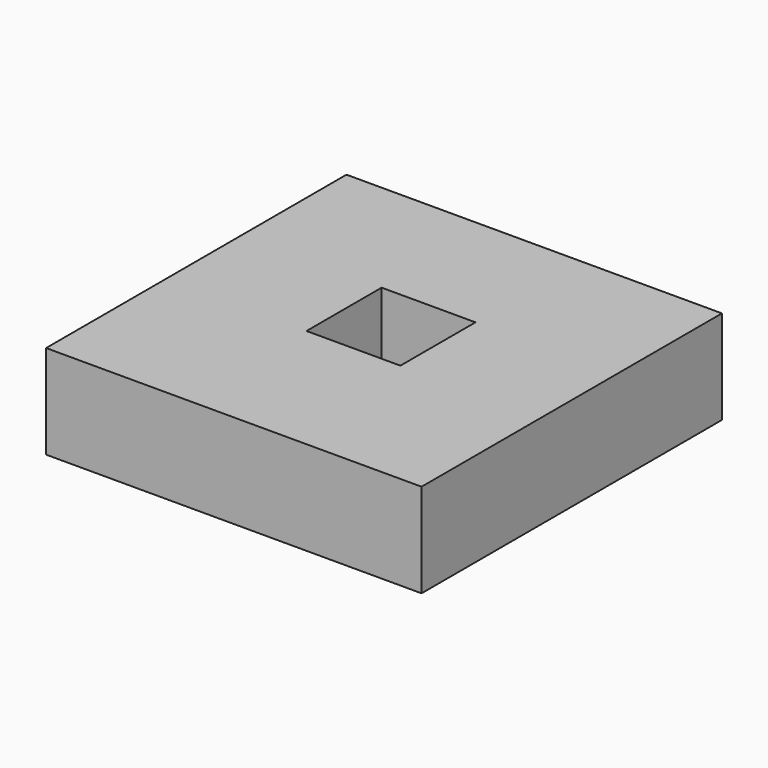
from build123d import *

# Parameters (mm, degrees)
F0_W     = 101.6
F0_H     = 101.6
F0_W_2   = 25.4
F0_H_2   = 25.4
F1_DEPTH = 25.4


with BuildPart() as f1:
    # F0 (on Top) → F1 (new body)
    with BuildSketch(Plane.XY):
        with Locations((0, -2.36716)):
            Rectangle(F0_W, F0_H)
        Rectangle(F0_W_2, F0_H_2, mode=Mode.SUBTRACT)
    extrude(amount=F1_DEPTH)


solid = f1.part
